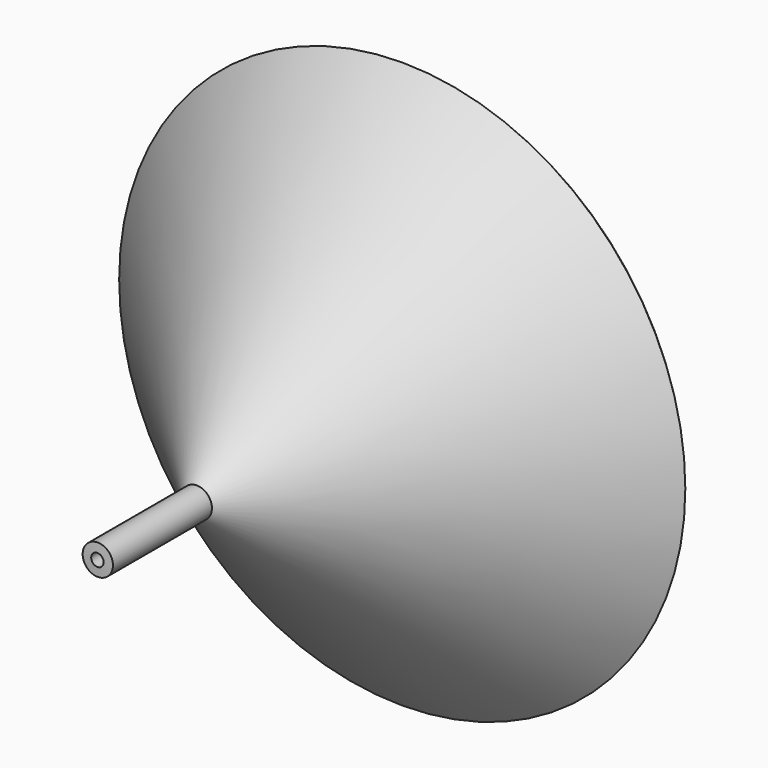
from build123d import *


with BuildPart() as f1:
    # F0 (on Top) → F1 (revolve)
    with BuildSketch(Plane.XY):
        Polygon((0, -25.4), (0, 0), (-1.835253, 0), (-1.835253, -25.493538), align=None)
        Polygon((-1.835253, 0), (0, 0), (55.008392, 52.730606), (54.129548, 53.647413), align=None)
    revolve(axis=Axis((-3.111953, -12.7, 0), (0, -1, 0)))


solid = f1.part
